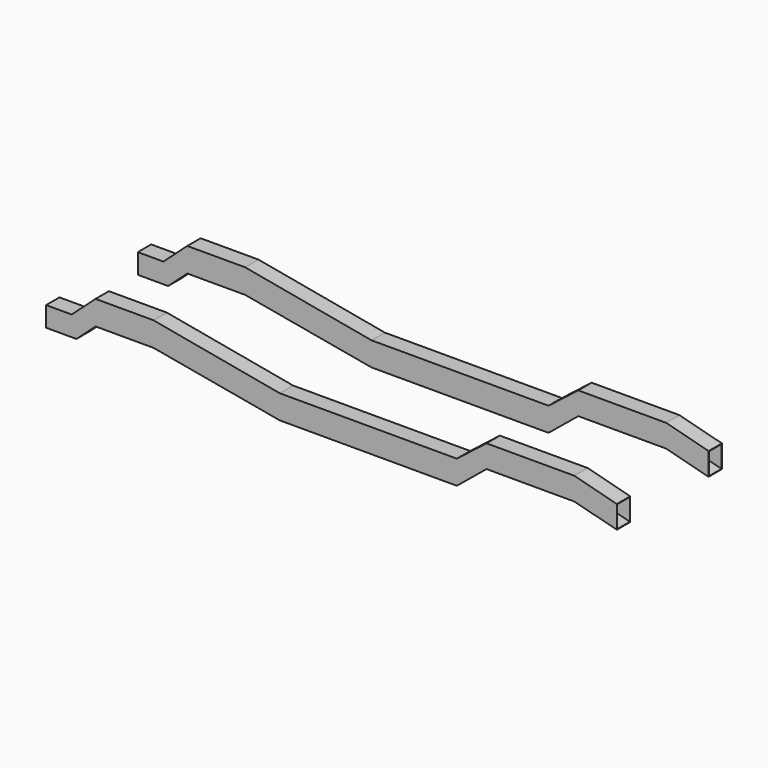
from build123d import *

# Parameters (mm, degrees)
F2_DEPTH = 100
F3_T     = -2.5


with BuildPart() as f2:
    # F1 (on offset) → F2 (new body)
    with BuildSketch(Plane.XZ.offset(393.5)):
        Polygon((-1412.8086419196, -128.9908189169), (-1566.2030417423, -128.9908189169), (-1566.2030417423, -248.7181238432), (-1384.3301761846, -248.7181238432), (-1269.8727268362, -145.4273580902), (-922.4524051726, -145.4273580902), (-165.9386103739, -281.9161423003), (895.0813985169, -281.9161423003), (1072.8795650266, -135.9633091626), (1599.3015918366, -135.9633091626), (1853.7969582577, -202.2018350482), (1853.7969582577, -66.2385258856), (1599.3015918366, 0), (1072.8795650266, 0), (895.0813985169, -138.8513897236), (-165.9386103739, -138.8513897236), (-922.4524051726, 0), (-1269.8727268362, 0), align=None)
    extrude(amount=-F2_DEPTH)

    # F3
    f3_openings = [f2.faces().sort_by_distance(p)[0] for p in [
        (-1566.203042, -343.5, -188.854471),
        (1853.796958, -343.5, -134.22018),
    ]]
    offset(amount=F3_T, openings=f3_openings, kind=Kind.INTERSECTION)


with BuildPart() as f4_1:
    # F4: instance of F2
    add(f2.part.mirror(Plane.XZ))


solid = Compound([f2.part, f4_1.part])
